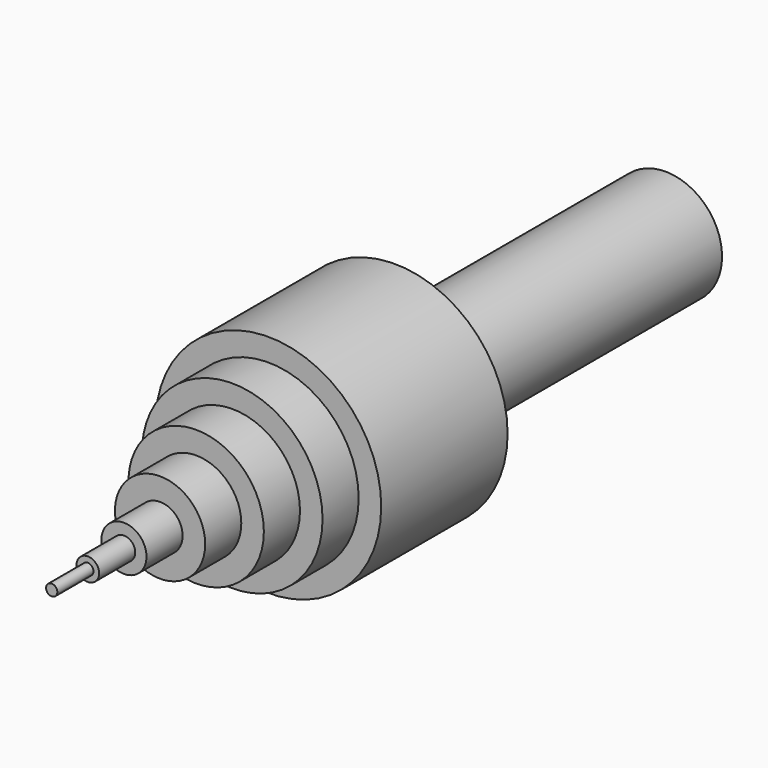
from build123d import *

# Parameters (mm, degrees)
F0_R      = 25
F1_DEPTH  = 12.5
F2_R      = 5
F2_R_2    = 2.5
F3_DEPTH  = 50
F2_R_3    = 10
F4_DEPTH  = 40
F2_R_4    = 15
F5_DEPTH  = 30
F2_R_5    = 20
F6_DEPTH  = 20
F2_R_6    = 25
F7_DEPTH  = 10
F2_R_7    = 1.25
F8_DEPTH  = 60
F9_DEPTH  = 70
F10_R     = 12.5
F11_DEPTH = 75


with BuildPart() as f1:
    # F0 (on Front) → F1 (new body, symmetric)
    with BuildSketch(Plane.XZ):
        Circle(F0_R)
    extrude(amount=F1_DEPTH, both=True)

    # F2 (on face) → F3 (join)
    with BuildSketch(Plane.XZ.offset(12.5)):
        Circle(F2_R)
        Circle(F2_R_2, mode=Mode.SUBTRACT)
    extrude(amount=F3_DEPTH)

    # F2 (on face) → F4 (join)
    with BuildSketch(Plane.XZ.offset(12.5)):
        Circle(F2_R_3)
        Circle(F2_R, mode=Mode.SUBTRACT)
    extrude(amount=F4_DEPTH)

    # F2 (on face) → F5 (join)
    with BuildSketch(Plane.XZ.offset(12.5)):
        Circle(F2_R_4)
        Circle(F2_R_3, mode=Mode.SUBTRACT)
    extrude(amount=F5_DEPTH)

    # F2 (on face) → F6 (join)
    with BuildSketch(Plane.XZ.offset(12.5)):
        Circle(F2_R_5)
        Circle(F2_R_4, mode=Mode.SUBTRACT)
    extrude(amount=F6_DEPTH)

    # F2 (on face) → F7 (join)
    with BuildSketch(Plane.XZ.offset(12.5)):
        Circle(F2_R_6)
        Circle(F2_R_5, mode=Mode.SUBTRACT)
    extrude(amount=F7_DEPTH)

    # F2 (on face) → F8 (join)
    with BuildSketch(Plane.XZ.offset(12.5)):
        Circle(F2_R_2)
        Circle(F2_R_7, mode=Mode.SUBTRACT)
    extrude(amount=F8_DEPTH)

    # F2 (on face) → F9 (join)
    with BuildSketch(Plane.XZ.offset(12.5)):
        Circle(F2_R_7)
    extrude(amount=F9_DEPTH)

    # F10 (on face) → F11 (join)
    with BuildSketch(Plane(origin=(0, 12.5, 0), x_dir=(-1, 0, 0), z_dir=(0, 1, 0))):
        Circle(F10_R)
    extrude(amount=F11_DEPTH)


solid = f1.part
